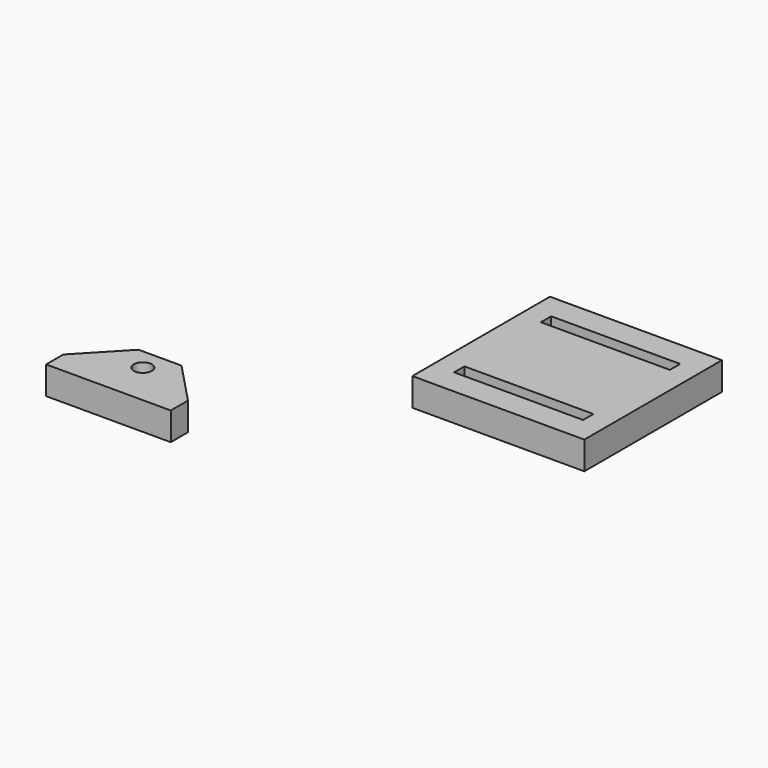
from build123d import *

# Parameters (mm, degrees)
F0_W     = 101.6
F0_H     = 101.6
F0_W_2   = 76.2
F0_H_2   = 7.62
F1_DEPTH = 16.51
F2_R     = 5.334
F3_DEPTH = 16.51


with BuildPart() as f1:
    # F0 (on Top) → F1 (new body)
    with BuildSketch(Plane.XY):
        with Locations((-11.337524, 123.990654)):
            Rectangle(F0_W, F0_H)
        with Locations((-11.337524, 91.950031)):
            Rectangle(F0_W_2, F0_H_2, mode=Mode.SUBTRACT)
        with Locations((-11.337524, 156.031277)):
            Rectangle(F0_W_2, F0_H_2, mode=Mode.SUBTRACT)
    extrude(amount=F1_DEPTH)


with BuildPart() as f3:
    # F2 (on Top) → F3 (new body)
    with BuildSketch(Plane.XY):
        Polygon((-201.361577, -10.576424), (-201.361577, -23.276424), (-127.701577, -23.276424), (-127.701577, -10.576424), (-151.831577, 14.823576), (-164.531577, 14.823576), (-177.231577, 14.823576), align=None)
        with Locations((-164.531577, 2.123576)):
            Circle(F2_R, mode=Mode.SUBTRACT)
    extrude(amount=F3_DEPTH)


solid = Compound([f1.part, f3.part])
